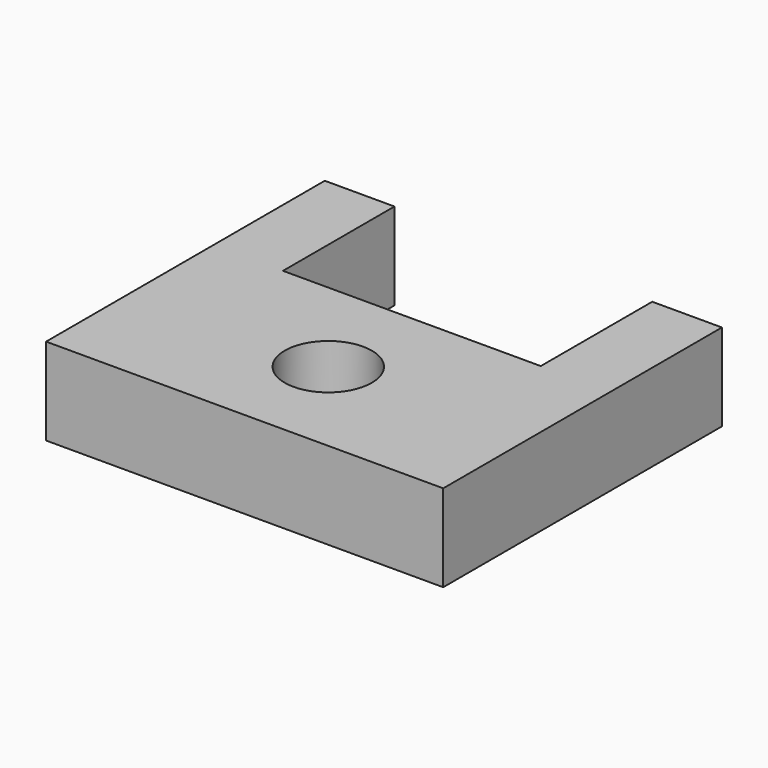
from build123d import *

# Parameters (mm, degrees)
F0_R     = 3.175
F1_DEPTH = 6.35


with BuildPart() as f1:
    # F0 (on Top) → F1 (new body)
    with BuildSketch(Plane.XY):
        Polygon((0, 25.4), (0, 0), (14.478, 0), (28.956, 0), (28.956, 25.4), (23.876, 25.4), (23.876, 15.24), (5.08, 15.24), (5.08, 25.4), align=None)
        with Locations((14.478, 7.62)):
            Circle(F0_R, mode=Mode.SUBTRACT)
    extrude(amount=F1_DEPTH)


solid = f1.part
